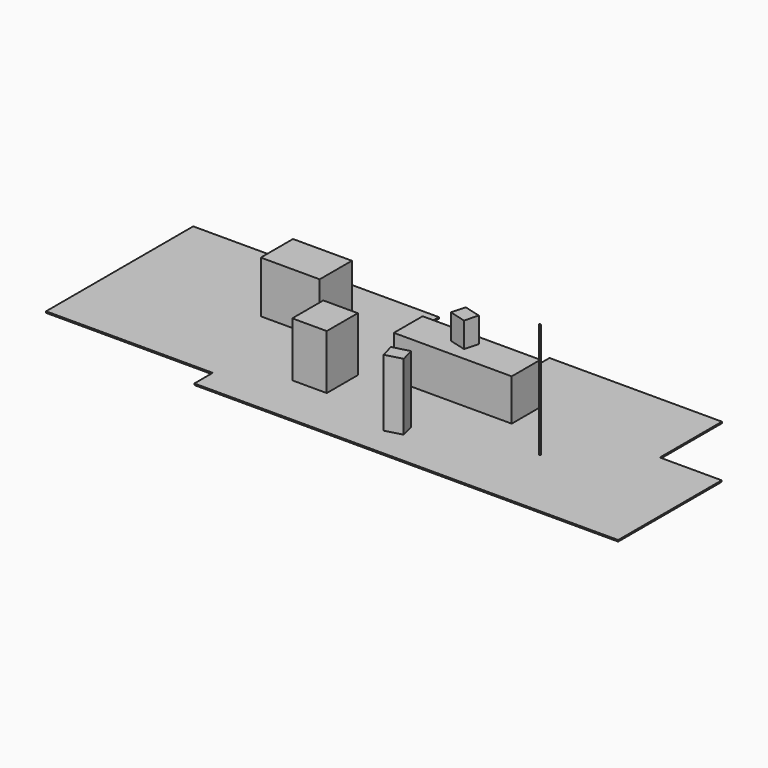
from build123d import *

# Parameters (mm, degrees)
F1_DEPTH  = 25.4
F2_W      = 2082.8
F2_H      = 635
F3_DEPTH  = 736.6
F4_W      = 1041.4
F4_H      = 711.2
F5_DEPTH  = 914.4
F6_W      = 609.6
F6_H      = 685.8
F7_DEPTH  = 965.2
F9_DEPTH  = 1181.1
F10_W     = 23.737669
F10_H     = 11.166096
F11_DEPTH = 2032


with BuildPart() as f1:
    # F0 (on Top) → F1 (new body)
    with BuildSketch(Plane.XY):
        Polygon((-1092.2, -1371.6), (-1092.2, 0), (-1233.089447, 0), (-4140.2, 0), (-4140.2, -558.8), (-6096, -558.8), (-6096, 0), (-10439.4, 0), (-10439.4, -2339.524269), (-10439.4, -3251.2), (-7493, -3251.2), (-7493, -3657.6), (0, -3657.6), (0, -1371.6), (-939.8, -1371.6), align=None)
    extrude(amount=-F1_DEPTH)


with BuildPart() as f3:
    # F2 (on Top) → F3 (new body)
    with BuildSketch(Plane.XY):
        with Locations((-4362.232924, -1542.509916)):
            Rectangle(F2_W, F2_H)
    extrude(amount=F3_DEPTH)


with BuildPart() as f5:
    # F4 (on Top) → F5 (new body)
    with BuildSketch(Plane.XY):
        with Locations((-7509.939194, -1161.688115)):
            Rectangle(F4_W, F4_H)
    extrude(amount=F5_DEPTH)


with BuildPart() as f7:
    # F6 (on Top) → F7 (new body)
    with BuildSketch(Plane.XY):
        with Locations((-6190.578938, -2397.879056)):
            Rectangle(F6_W, F6_H)
    extrude(amount=F7_DEPTH)


with BuildPart() as f9:
    # F8 (on face) → F9 (new body)
    with BuildSketch(Plane.XY):
        Polygon((-4343.840993, -2803.590988), (-4638.255185, -2882.479033), (-4572.515147, -3127.824193), (-4278.100956, -3048.936148), align=None)
        Polygon((-4278.100956, -1389.845828), (-4572.515147, -1310.957783), (-4638.255185, -1556.302943), (-4343.840993, -1635.190988), align=None)
    extrude(amount=F9_DEPTH)


with BuildPart() as f11:
    # F10 (on face) → F11 (new body)
    with BuildSketch(Plane.XY):
        with Locations((-2433.009982, -2343.087673)):
            Rectangle(F10_W, F10_H)
    extrude(amount=F11_DEPTH)


solid = Compound([f1.part, f3.part, f5.part, f7.part, f9.part, f11.part])
